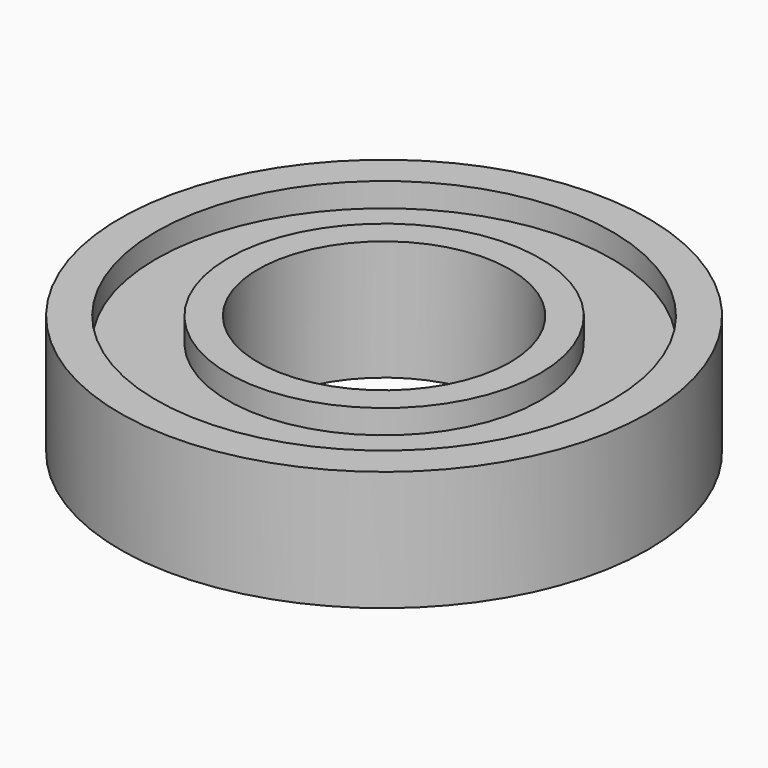
from build123d import *

# Parameters (mm, degrees)
F0_R     = 11
F0_R_2   = 9.5
F1_DEPTH = 5
F0_R_3   = 6.5
F0_R_4   = 5.25
F2_DEPTH = 5
F3_DEPTH = 4


with BuildPart() as f1:
    # F0 (on Top) → F1 (new body)
    with BuildSketch(Plane.XY):
        Circle(F0_R)
        Circle(F0_R_2, mode=Mode.SUBTRACT)
    extrude(amount=F1_DEPTH)


with BuildPart() as f2:
    # F0 (on Top) → F2 (new body)
    with BuildSketch(Plane.XY):
        Circle(F0_R_3)
        Circle(F0_R_4, mode=Mode.SUBTRACT)
    extrude(amount=F2_DEPTH)


with BuildPart() as f3:
    # F0 (on Top) → F3 (new body)
    with BuildSketch(Plane.XY):
        Circle(F0_R_2)
        Circle(F0_R_3, mode=Mode.SUBTRACT)
    extrude(amount=F3_DEPTH)


solid = Compound([f1.part, f2.part, f3.part])
